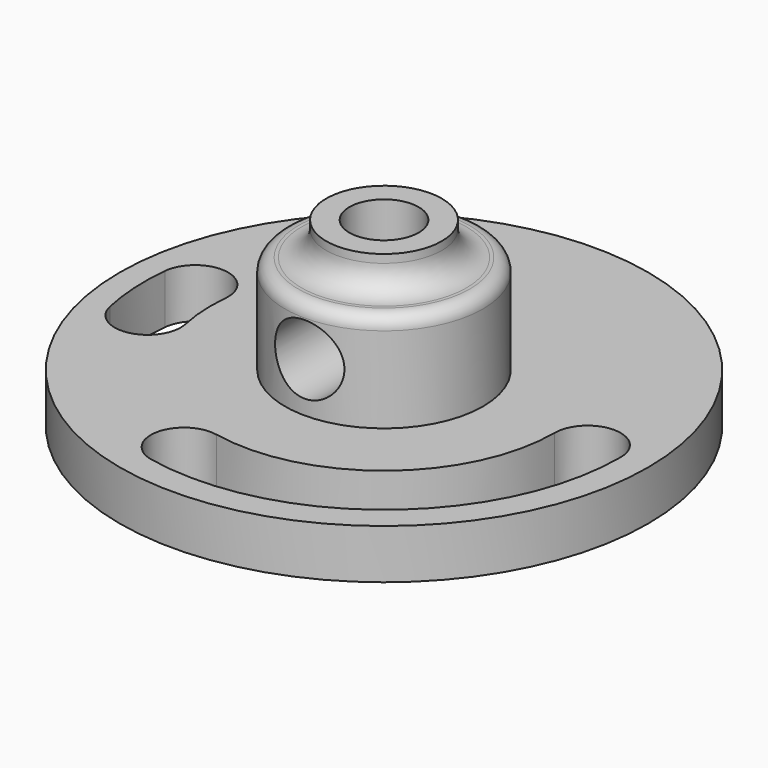
from build123d import *

# Parameters (mm, degrees)
SKETCH007_R     = 2.1
PAD003_DEPTH    = 10
SKETCH_R        = 16
PAD_DEPTH       = 3
POCKET_DEPTH    = 3.001
POCKET001_DEPTH = 3
POCKET002_DEPTH = 3
SKETCH004_R     = 6
PAD001_DEPTH    = 6
SKETCH005_R     = 3.5
PAD002_DEPTH    = 2
SKETCH006_R     = 2.1
POCKET003_DEPTH = 11.001
FILLET_R        = 1.5
FILLET001_R     = 0.8


with BuildPart() as pad003:
    # Sketch007 → Pad003 (new body)
    with BuildSketch(Plane.XZ):
        with Locations((0, 6)):
            Circle(SKETCH007_R)
    extrude(amount=PAD003_DEPTH)


with BuildPart() as cut:
    # Sketch → Pad (new body)
    with BuildSketch(Plane.XY):
        Circle(SKETCH_R)
    extrude(amount=PAD_DEPTH)

    # Sketch001 → Pocket (cut, through all)
    with BuildSketch(Plane.XY.offset(3)):
        with BuildLine():
            ThreePointArc((-2.847664, -14.048884), (9.073595, -11.097307), (14.334585, 0))
            ThreePointArc((14.334585, 0), (12.334585, 2), (10.334585, 0))
            ThreePointArc((-2.053037, -10.128608), (6.54165, -8.000654), (10.334585, 0))
            ThreePointArc((-2.053037, -10.128608), (-4.410489, -11.691432), (-2.847664, -14.048884))
        make_face()
    extrude(amount=-POCKET_DEPTH, mode=Mode.SUBTRACT)

    # Sketch002 → Pocket001 (cut)
    with BuildSketch(Plane.XY.offset(3)):
        with BuildLine():
            ThreePointArc((-10.443847, 1.041795), (-10.47921, -0.587733), (-10.261856, -2.203087))
            ThreePointArc((-14.172744, -3.042704), (-11.797491, -4.57834), (-10.261856, -2.203087))
            ThreePointArc((-14.424094, 1.438832), (-14.472934, -0.811724), (-14.172744, -3.042704))
            ThreePointArc((-10.443847, 1.041795), (-12.235452, 3.230437), (-14.424094, 1.438832))
        make_face()
    extrude(amount=-POCKET001_DEPTH, mode=Mode.SUBTRACT)

    # Sketch003 → Pocket002 (cut)
    with BuildSketch(Plane.XY.offset(3)):
        with BuildLine():
            ThreePointArc((-8.510484, 11.534817), (-9.061837, 11.106909), (-9.59171, 10.652673))
            ThreePointArc((-9.59171, 10.652673), (-9.739738, 7.828122), (-6.915187, 7.680094))
            ThreePointArc((-6.135673, 8.316079), (-6.533173, 8.007578), (-6.915187, 7.680094))
            ThreePointArc((-6.135673, 8.316079), (-5.71371, 11.112854), (-8.510484, 11.534817))
        make_face()
    extrude(amount=-POCKET002_DEPTH, mode=Mode.SUBTRACT)

    # Sketch004 → Pad001 (new body)
    with BuildSketch(Plane.XY.offset(3)):
        Circle(SKETCH004_R)
    extrude(amount=PAD001_DEPTH)

    # Sketch005 → Pad002 (new body)
    with BuildSketch(Plane.XY.offset(9)):
        Circle(SKETCH005_R)
    extrude(amount=PAD002_DEPTH)

    # Sketch006 → Pocket003 (cut, through all)
    with BuildSketch(Plane.XY.offset(11)):
        Circle(SKETCH006_R)
    extrude(amount=-POCKET003_DEPTH, mode=Mode.SUBTRACT)

    # Fillet
    fillet_edges = [cut.edges().sort_by_distance(p)[0] for p in [
        (-3.5, 0, 9),
    ]]
    fillet(fillet_edges, radius=FILLET_R)

    # Fillet001
    fillet001_edges = [cut.edges().sort_by_distance(p)[0] for p in [
        (-6, 0, 9),
    ]]
    fillet(fillet001_edges, radius=FILLET001_R)

    # Cut: cut Pad003
    add(pad003.part, mode=Mode.SUBTRACT)


solid = cut.part
